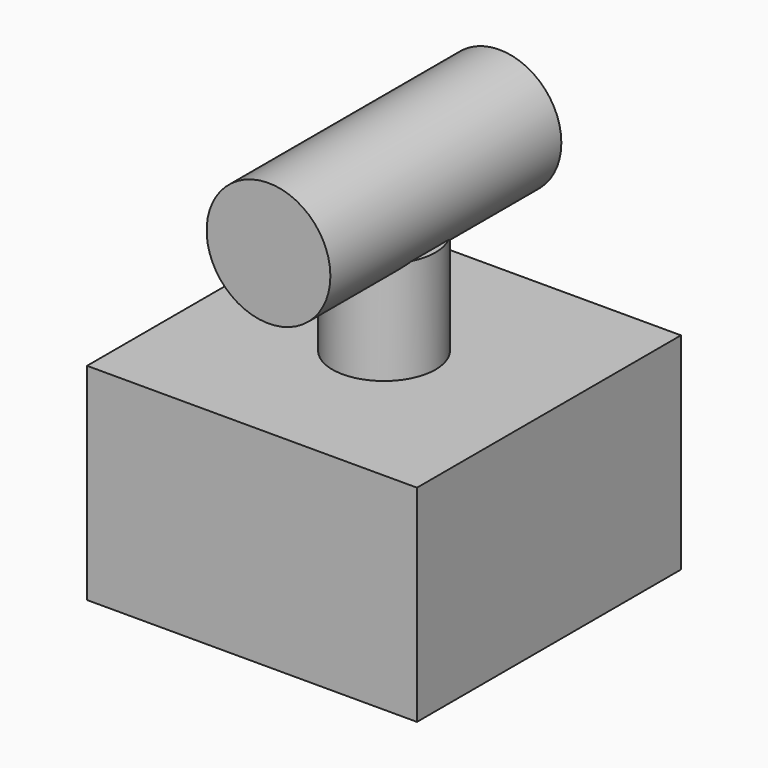
from build123d import *

# Parameters (mm, degrees)
BOX001_W       = 10
BOX001_H       = 10
BOX001_DEPTH   = 8
CYLINDER_R     = 2.5
CYLINDER_DEPTH = 5
SKETCH_R       = 3
EXTRUDE_DEPTH  = 14
BOX_W          = 16
BOX_H          = 16
BOX_DEPTH      = 10


with BuildPart() as cube001:
    # Box001 → Box001 (new body)
    with BuildSketch(Plane(origin=(-5, -5, 0), x_dir=(1, 0, 0), z_dir=(0, 0, 1))):
        with Locations((5, 5)):
            Rectangle(BOX001_W, BOX001_H)
    extrude(amount=BOX001_DEPTH)


with BuildPart() as cylinder:
    # Cylinder → Cylinder (new body)
    with BuildSketch(Plane.XY.offset(10)):
        Circle(CYLINDER_R)
    extrude(amount=CYLINDER_DEPTH)


with BuildPart() as extrude_body:
    # Sketch (on Cylinder) → Extrude (new body)
    with BuildSketch(Plane(origin=(0, 0, 10), x_dir=(1, 0, 0), z_dir=(0, -1, 0))):
        with Locations((0, 7)):
            Circle(SKETCH_R)
    extrude(amount=EXTRUDE_DEPTH)


with BuildPart() as extrude_body_1:
    # Extrude placement: moved
    add(extrude_body.part.moved(Location((0, 7, 0))))


with BuildPart() as cut:
    # Box → Box (new body)
    with BuildSketch(Plane(origin=(-8, -8, 0), x_dir=(1, 0, 0), z_dir=(0, 0, 1))):
        with Locations((8, 8)):
            Rectangle(BOX_W, BOX_H)
    extrude(amount=BOX_DEPTH)

    # Fusion: union Cylinder, Extrude body
    add(cylinder.part)
    add(extrude_body_1.part)

    # Cut: cut Cube001
    add(cube001.part, mode=Mode.SUBTRACT)


solid = cut.part
